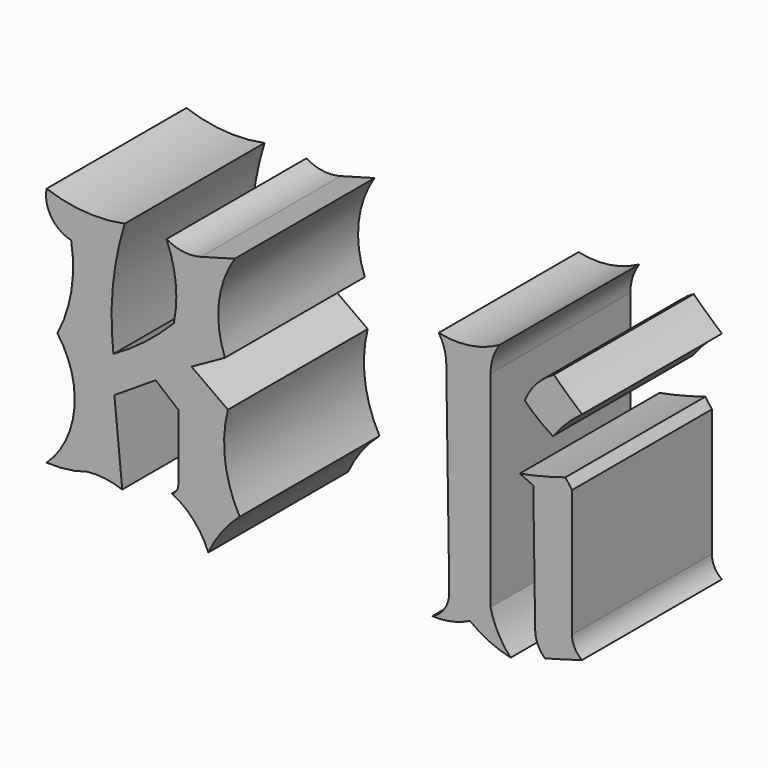
from build123d import *

# Parameters (mm, degrees)
F1_DEPTH = 25.4


with BuildPart() as f1:
    # F0 (on Front) → F1 (new body)
    with BuildSketch(Plane.XZ):
        with BuildLine():
            Line((-33.27518, 21.554071), (-34.417633, 33.26419))
            Line((-34.417633, 33.26419), (-28.419765, 37.119962))
            Line((-28.419765, 37.119962), (-25.135219, 34.406643))
            Line((-25.135219, 34.406643), (-25.135219, 24.767214))
            ThreePointArc((-25.135219, 24.767214), (-25.389488, 23.945301), (-26.063459, 23.410549))
            ThreePointArc((-26.063459, 23.410549), (-22.869054, 20.981607), (-20.779625, 17.55549))
            ThreePointArc((-20.779625, 17.55549), (-18.824216, 20.838215), (-16.209824, 23.624765))
            ThreePointArc((-16.209824, 23.624765), (-18.325133, 30.028848), (-17.920946, 36.761116))
            Line((-17.920946, 36.761116), (-23.207335, 40.547315))
            Line((-23.207335, 40.547315), (-18.351918, 43.260634))
            ThreePointArc((-18.351918, 43.260634), (-19.241502, 50.004033), (-16.923856, 56.39882))
            Line((-16.923856, 56.39882), (-21.850673, 55.042159))
            ThreePointArc((-21.850673, 55.042159), (-24.414345, 54.861334), (-26.848895, 55.684786))
            ThreePointArc((-26.848895, 55.684786), (-25.510478, 50.554844), (-25.777848, 45.259923))
            ThreePointArc((-25.777848, 45.259923), (-29.930328, 41.559068), (-34.560438, 38.47662))
            ThreePointArc((-34.560438, 38.47662), (-34.638844, 47.166551), (-32.918166, 55.684786))
            ThreePointArc((-32.918166, 55.684786), (-38.648518, 55.299829), (-44.271268, 56.470219))
            ThreePointArc((-44.271268, 56.470219), (-43.57884, 53.038049), (-40.70111, 51.043577))
            ThreePointArc((-40.70111, 51.043577), (-40.661111, 44.594701), (-42.700395, 38.47662))
            ThreePointArc((-42.700395, 38.47662), (-40.237136, 29.644897), (-44.271268, 21.411262))
            ThreePointArc((-44.271268, 21.411262), (-41.236148, 21.527648), (-38.273402, 22.196697))
            ThreePointArc((-38.273402, 22.196697), (-35.739198, 22.148327), (-33.27518, 21.554071))
        make_face()
        with BuildLine():
            ThreePointArc((12.708317, 56.560576), (13.510959, 54.885482), (13.80493, 53.051427))
            Line((13.80493, 53.051427), (14.241752, 23.893197))
            ThreePointArc((14.241752, 23.893197), (13.583585, 21.576968), (11.757923, 20.006917))
            ThreePointArc((11.757923, 20.006917), (14.575019, 20.237533), (17.240971, 21.176634))
            ThreePointArc((17.240971, 21.176634), (20.054332, 19.473214), (23.162667, 18.398555))
            ThreePointArc((23.162667, 18.398555), (21.339329, 20.953647), (20.238372, 23.893197))
            Line((20.238372, 23.893197), (20.238372, 53.7825))
            ThreePointArc((20.238372, 53.7825), (20.575439, 55.93265), (21.554302, 57.876509))
            ThreePointArc((21.554302, 57.876509), (17.252346, 56.404914), (12.708317, 56.560576))
        make_face()
        with BuildLine():
            ThreePointArc((31.131364, 44.059221), (27.830975, 43.115641), (24.478598, 42.377755))
            Line((24.478598, 42.377755), (26.452495, 41.500464))
            Line((26.452495, 41.500464), (26.728413, 23.08265))
            ThreePointArc((26.728413, 23.08265), (27.108059, 21.363993), (28.133964, 19.933807))
            ThreePointArc((28.133964, 19.933807), (30.846919, 20.673301), (33.543907, 21.46906))
            ThreePointArc((33.543907, 21.46906), (32.469612, 22.677456), (32.081757, 24.247138))
            Line((32.081757, 24.247138), (32.081757, 42.743292))
            Line((32.081757, 42.743292), (31.131364, 44.059221))
        make_face()
        with BuildLine():
            ThreePointArc((29.303681, 48.738092), (31.262905, 50.985361), (33.543907, 52.905206))
            ThreePointArc((33.543907, 52.905206), (31.460389, 54.729351), (29.449895, 56.633681))
            ThreePointArc((29.449895, 56.633681), (26.925607, 54.660532), (25.209671, 51.954813))
            ThreePointArc((25.209671, 51.954813), (27.158915, 50.22203), (29.303681, 48.738092))
        make_face()
    extrude(amount=F1_DEPTH)


solid = f1.part
